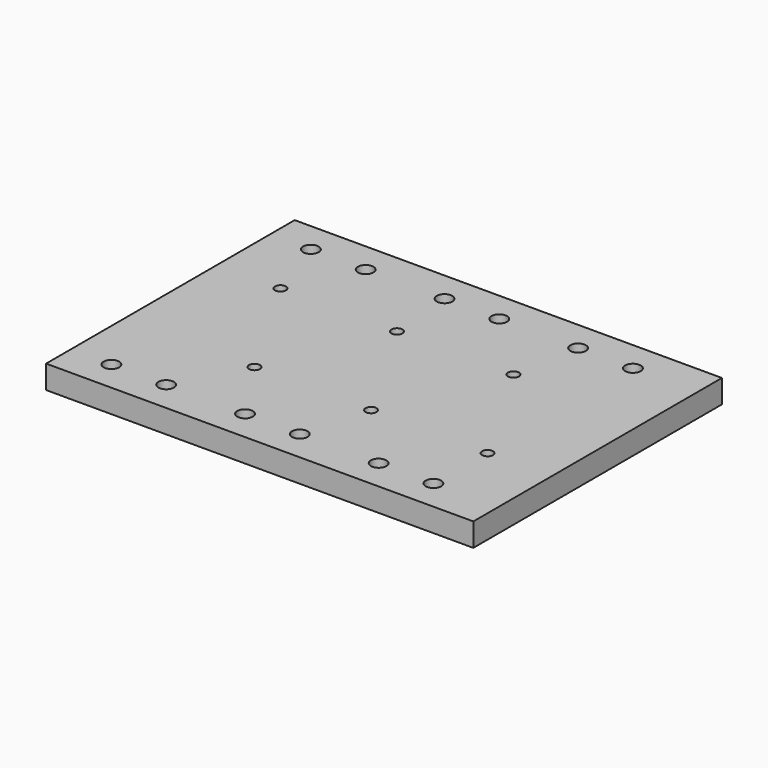
from build123d import *

# Parameters (mm, degrees)
SKETCH_W        = 110
SKETCH_H        = 80
PAD_DEPTH       = 6
SKETCH001_R     = 1.4
POCKET_DEPTH    = 8
SKETCH002_R     = 2
POCKET001_DEPTH = 6


with BuildPart() as part:
    # Sketch → Pad (new body)
    with BuildSketch(Plane.XY):
        Rectangle(SKETCH_W, SKETCH_H)
    extrude(amount=PAD_DEPTH)

    # Sketch001 → Pocket (cut)
    with BuildSketch(Plane.XY.offset(6)):
        with Locations((-38.660252, 15)):
            Circle(SKETCH001_R)
        with Locations((-21.339748, -15)):
            Circle(SKETCH001_R)
        with Locations((-8.660252, 15)):
            Circle(SKETCH001_R)
        with Locations((8.660252, -15)):
            Circle(SKETCH001_R)
        with Locations((21.339748, 15)):
            Circle(SKETCH001_R)
        with Locations((38.660252, -15)):
            Circle(SKETCH001_R)
    extrude(amount=-POCKET_DEPTH, mode=Mode.SUBTRACT)

    # Sketch002 → Pocket001 (cut)
    with BuildSketch(Plane.XY.offset(6)):
        with Locations((-44.5, 32.1)):
            Circle(SKETCH002_R)
        with Locations((38.4, 32.1)):
            Circle(SKETCH002_R)
        with Locations((-30.4, 32.1)):
            Circle(SKETCH002_R)
        with Locations((-10.1, 32.1)):
            Circle(SKETCH002_R)
        with Locations((24.3, 32.1)):
            Circle(SKETCH002_R)
        with Locations((4, 32.1)):
            Circle(SKETCH002_R)
    pocket001 = extrude(amount=-POCKET001_DEPTH, mode=Mode.SUBTRACT)

    # Mirrored: Pocket001 across Sketch002 H_Axis
    add(pocket001.mirror(Plane(origin=(0, 0, 6), x_dir=(0, 0, 1), z_dir=(0, 1, 0))), mode=Mode.SUBTRACT)


solid = part.part
